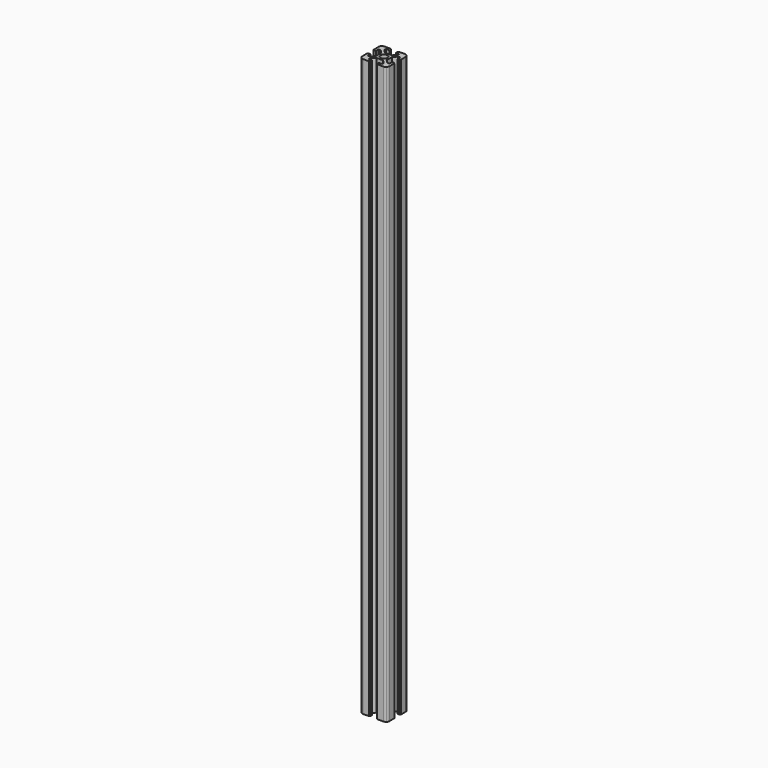
from build123d import *

# Parameters (mm, degrees)
F1_DEPTH = 850
F2_R     = 5
F3_DEPTH = 850


with BuildPart() as f1:
    # F0 (on Top) → F1 (new body)
    with BuildSketch(Plane.XY):
        with BuildLine():
            Line((8, -5), (8, 0))
            Line((8, 0), (8, 5))
            Line((8, 5), (13, 10))
            Line((13, 10), (16, 10))
            Line((16, 10), (16, 5))
            Line((16, 5), (19, 5))
            Line((19, 5), (19, 6))
            Line((19, 6), (20, 6))
            Line((20, 6), (20, 15))
            ThreePointArc((20, 15), (19.619398, 16.913417), (18.535534, 18.535534))
            ThreePointArc((18.535534, 18.535534), (16.913417, 19.619398), (15, 20))
            Line((15, 20), (6, 20))
            Line((6, 20), (6, 19))
            Line((6, 19), (5, 19))
            Line((5, 19), (5, 16))
            Line((5, 16), (10, 16))
            Line((10, 16), (10, 13))
            Line((10, 13), (5, 8))
            Line((5, 8), (0, 8))
            Line((0, 8), (-5, 8))
            Line((-5, 8), (-10, 13))
            Line((-10, 13), (-10, 16))
            Line((-10, 16), (-5, 16))
            Line((-5, 16), (-5, 19))
            Line((-5, 19), (-6, 19))
            Line((-6, 19), (-6, 20))
            Line((-6, 20), (-15, 20))
            ThreePointArc((-15, 20), (-16.913417, 19.619398), (-18.535534, 18.535534))
            ThreePointArc((-18.535534, 18.535534), (-19.619398, 16.913417), (-20, 15))
            Line((-20, 15), (-20, 6))
            Line((-20, 6), (-19, 6))
            Line((-19, 6), (-19, 5))
            Line((-19, 5), (-16, 5))
            Line((-16, 5), (-16, 10))
            Line((-16, 10), (-13, 10))
            Line((-13, 10), (-8, 5))
            Line((-8, 5), (-8, 0))
            Line((-8, 0), (-8, -5))
            Line((-8, -5), (-13, -10))
            Line((-13, -10), (-16, -10))
            Line((-16, -10), (-16, -5))
            Line((-16, -5), (-19, -5))
            Line((-19, -5), (-19, -6))
            Line((-19, -6), (-20, -6))
            Line((-20, -6), (-20, -15))
            ThreePointArc((-20, -15), (-19.619398, -16.913417), (-18.535534, -18.535534))
            ThreePointArc((-18.535534, -18.535534), (-16.913417, -19.619398), (-15, -20))
            Line((-15, -20), (-6, -20))
            Line((-6, -20), (-6, -19))
            Line((-6, -19), (-5, -19))
            Line((-5, -19), (-5, -16))
            Line((-5, -16), (-10, -16))
            Line((-10, -16), (-10, -13))
            Line((-10, -13), (-5, -8))
            Line((-5, -8), (0, -8))
            Line((0, -8), (5, -8))
            Line((5, -8), (10, -13))
            Line((10, -13), (10, -16))
            Line((10, -16), (5, -16))
            Line((5, -16), (5, -19))
            Line((5, -19), (6, -19))
            Line((6, -19), (6, -20))
            Line((6, -20), (15, -20))
            ThreePointArc((15, -20), (16.913417, -19.619398), (18.535534, -18.535534))
            ThreePointArc((18.535534, -18.535534), (19.619398, -16.913417), (20, -15))
            Line((20, -15), (20, -6))
            Line((20, -6), (19, -6))
            Line((19, -6), (19, -5))
            Line((19, -5), (16, -5))
            Line((16, -5), (16, -10))
            Line((16, -10), (13, -10))
            Line((13, -10), (8, -5))
        make_face()
    extrude(amount=F1_DEPTH)

    # F2 (on face) → F3 (cut, through all)
    with BuildSketch(Plane.XY.offset(850)):
        Circle(F2_R)
    extrude(amount=-F3_DEPTH, mode=Mode.SUBTRACT)


solid = f1.part
